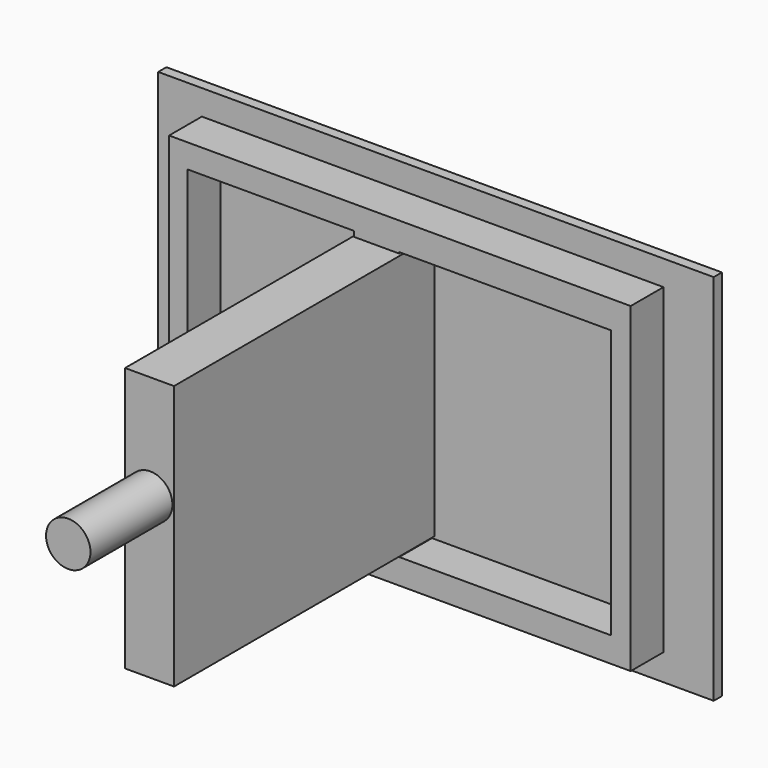
from build123d import *

# Parameters (mm, degrees)
F0_W     = 51.809754
F0_H     = 79.682095
F0_W_2   = 41.31664
F0_H_2   = 67.549428
F0_W_3   = 62.63078
F0_W_4   = 52.465571
F0_H_3   = 66.565698
F1_DEPTH = 12.7
F2_W     = 137.722135
F2_H     = 92.470575
F3_DEPTH = 2.54
F4_W     = 12.132665
F4_H     = 65.58197
F5_DEPTH = 83.312
F6_R     = 5.504968
F7_DEPTH = 108.712


with BuildPart() as f1:
    # F0 (on Front) → F1 (new body)
    with BuildSketch(Plane.XZ):
        with Locations((-25.904877, 12.460576)):
            Rectangle(F0_W, F0_H)
        with Locations((-26.560696, 12.624529)):
            Rectangle(F0_W_2, F0_H_2, mode=Mode.SUBTRACT)
        with Locations((31.31539, 12.460576)):
            Rectangle(F0_W_3, F0_H)
        with Locations((31.479344, 12.132664)):
            Rectangle(F0_W_4, F0_H_3, mode=Mode.SUBTRACT)
    extrude(amount=F1_DEPTH)

    # F2 (on Front) → F3 (join)
    with BuildSketch(Plane.XZ):
        with Locations((6.230287, 12.296619)):
            Rectangle(F2_W, F2_H)
    extrude(amount=F3_DEPTH)

    # F4 (on Front) → F5 (join)
    with BuildSketch(Plane.XZ):
        with Locations((-0.163952, 12.296621)):
            Rectangle(F4_W, F4_H)
    extrude(amount=F5_DEPTH)

    # F6 (on Front) → F7 (join)
    with BuildSketch(Plane.XZ):
        with Locations((0, 19.058177)):
            Circle(F6_R)
    extrude(amount=F7_DEPTH)


solid = f1.part
